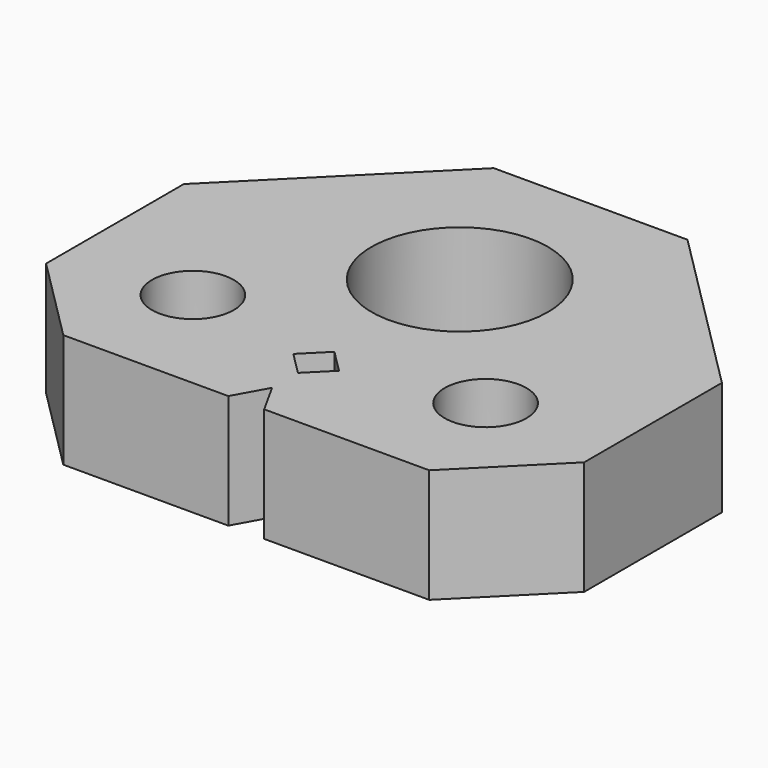
from build123d import *

# Parameters (mm, degrees)
F0_R     = 1.9
F0_R_2   = 4.1
F1_DEPTH = 5.3


with BuildPart() as f1:
    # F0 (on Top) → F1 (new body)
    with BuildSketch(Plane.XY):
        Polygon((4.5, 10), (-4.5, 10), (-12.5, 2), (-12.5, -6), (-8.5, -10), (-0.833175, -10), (0, -8.5), (0.833175, -10), (8.5, -10), (12.5, -6), (12.5, 2), align=None)
        with Locations((-6.8, -4.6)):
            Circle(F0_R, mode=Mode.SUBTRACT)
        Polygon((-1.06066, -5.93934), (0, -4.87868), (1.06066, -5.93934), (0, -7), align=None, mode=Mode.SUBTRACT)
        with Locations((6.8, -4.6)):
            Circle(F0_R, mode=Mode.SUBTRACT)
        with Locations((0, 2.4)):
            Circle(F0_R_2, mode=Mode.SUBTRACT)
    extrude(amount=F1_DEPTH)


solid = f1.part
